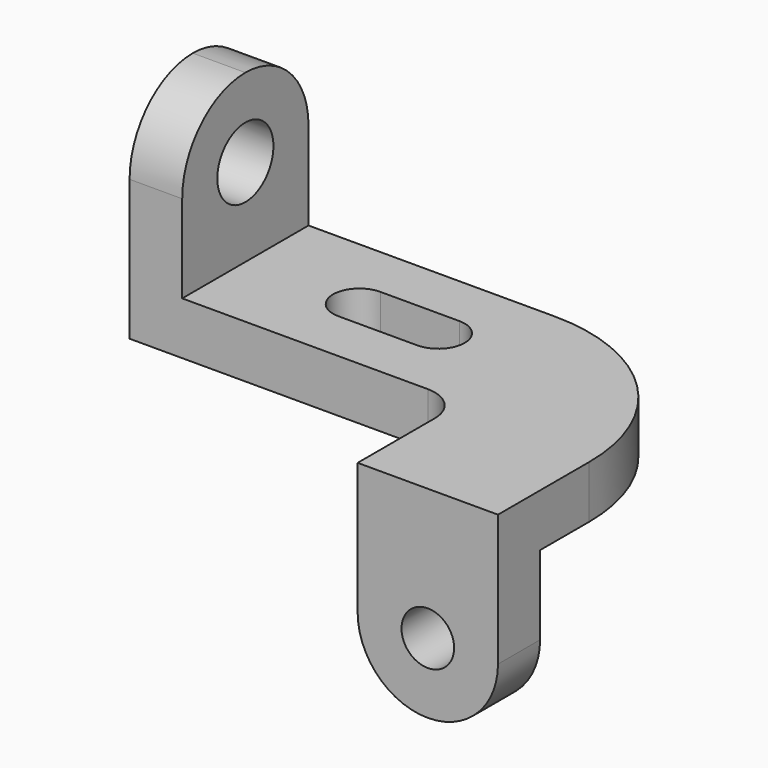
from build123d import *

# Parameters (mm, degrees)
F0_W     = 15.24
F0_H     = 45.72
F0_W_2   = 40.64
F0_H_2   = 15.24
F1_DEPTH = 15.24
F2_DEPTH = 63.5
F3_DEPTH = 43.18
F4_R     = 10.16
F5_DEPTH = 15.24
F6_R     = 7.62
F7_DEPTH = 15.24


with BuildPart() as f1:
    # F0 (on Top) → F1 (new body)
    with BuildSketch(Plane.XY):
        with BuildLine():
            Line((15.24, 45.72), (15.24, 0))
            Line((15.24, 0), (86.36, 0))
            ThreePointArc((86.36, 0), (93.544205, -2.975795), (96.52, -10.16))
            Line((96.52, -10.16), (96.52, -22.86))
            Line((96.52, -22.86), (137.16, -22.86))
            Line((137.16, -22.86), (137.16, -5.08))
            ThreePointArc((137.16, -5.08), (122.281024, 30.841024), (86.36, 45.72))
            Line((86.36, 45.72), (15.24, 45.72))
        make_face()
        with BuildLine():
            ThreePointArc((48.26, 15.24), (40.64, 22.86), (48.26, 30.48))
            Line((48.26, 30.48), (71.12, 30.48))
            ThreePointArc((71.12, 30.48), (78.74, 22.86), (71.12, 15.24))
            Line((71.12, 15.24), (48.26, 15.24))
        make_face(mode=Mode.SUBTRACT)
        with Locations((7.62, 22.86)):
            Rectangle(F0_W, F0_H)
        with Locations((116.84, -30.48)):
            Rectangle(F0_W_2, F0_H_2)
    extrude(amount=F1_DEPTH)

    # F0 (on Top) → F2 (join)
    with BuildSketch(Plane.XY):
        with Locations((7.62, 22.86)):
            Rectangle(F0_W, F0_H)
    extrude(amount=F2_DEPTH)

    # F0 (on Top) → F3 (join)
    with BuildSketch(Plane.XY):
        with Locations((116.84, -30.48)):
            Rectangle(F0_W_2, F0_H_2)
    extrude(amount=-F3_DEPTH)

    # F4 (on face) → F5 (cut, through all)
    with BuildSketch(Plane(origin=(0, 0, 0), x_dir=(0, -1, 0), z_dir=(-1, 0, 0))):
        with BuildLine():
            ThreePointArc((-22.86, 63.5), (-6.695539, 56.804461), (0, 40.64))
            Line((0, 40.64), (0, 63.5))
            Line((0, 63.5), (-22.86, 63.5))
        make_face()
        with BuildLine():
            Line((-45.72, 63.5), (-45.72, 40.64))
            ThreePointArc((-45.72, 40.64), (-39.024461, 56.804461), (-22.86, 63.5))
            Line((-22.86, 63.5), (-45.72, 63.5))
        make_face()
        with Locations((-22.86, 40.64)):
            Circle(F4_R)
    extrude(amount=-F5_DEPTH, mode=Mode.SUBTRACT)

    # F6 (on face) → F7 (cut, through all)
    with BuildSketch(Plane.XZ.offset(38.1)):
        with BuildLine():
            ThreePointArc((137.16, -22.86), (131.20841, -37.22841), (116.84, -43.18))
            Line((116.84, -43.18), (137.16, -43.18))
            Line((137.16, -43.18), (137.16, -22.86))
        make_face()
        with BuildLine():
            ThreePointArc((116.84, -43.18), (102.47159, -37.22841), (96.52, -22.86))
            Line((96.52, -22.86), (96.52, -43.18))
            Line((96.52, -43.18), (116.84, -43.18))
        make_face()
        with Locations((116.84, -22.86)):
            Circle(F6_R)
    extrude(amount=-F7_DEPTH, mode=Mode.SUBTRACT)


solid = f1.part
